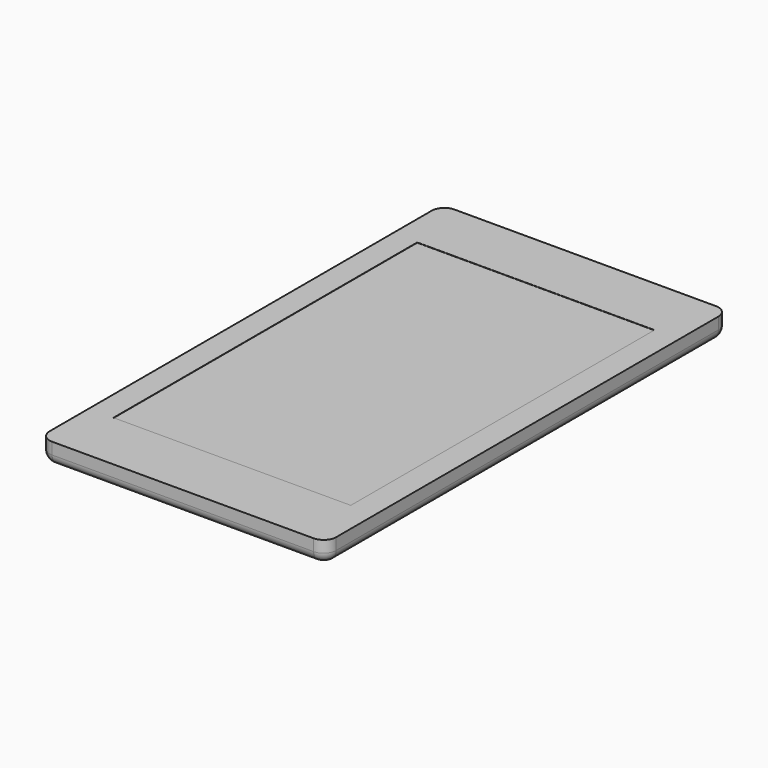
from build123d import *

# Parameters (mm, degrees)
F1_W     = 114
F1_H     = 200
F2_DEPTH = 8.65
F3_W     = 94.3653250774
F3_H     = 150.9845201238
F4_DEPTH = 0.1
F5_R     = 5
F6_R     = 4


with BuildPart() as f2:
    # F1 (on Top) → F2 (new body)
    with BuildSketch(Plane.XY):
        Rectangle(F1_W, F1_H)
    extrude(amount=F2_DEPTH)

    # F3 (on face) → F4 (cut)
    with BuildSketch(Plane.XY.offset(8.65)):
        Rectangle(F3_W, F3_H)
    extrude(amount=-F4_DEPTH, mode=Mode.SUBTRACT)

    # F5
    f5_edges = [f2.edges().sort_by_distance(p)[0] for p in [
        (-57, -100, 4.325),
        (57, -100, 4.325),
        (-57, 100, 4.325),
        (57, 100, 4.325),
    ]]
    fillet(f5_edges, radius=F5_R)

    # F6
    f6_edges = [f2.edges().sort_by_distance(p)[0] for p in [
        (-57, 0, 0),
    ]]
    fillet(f6_edges, radius=F6_R)


solid = f2.part
